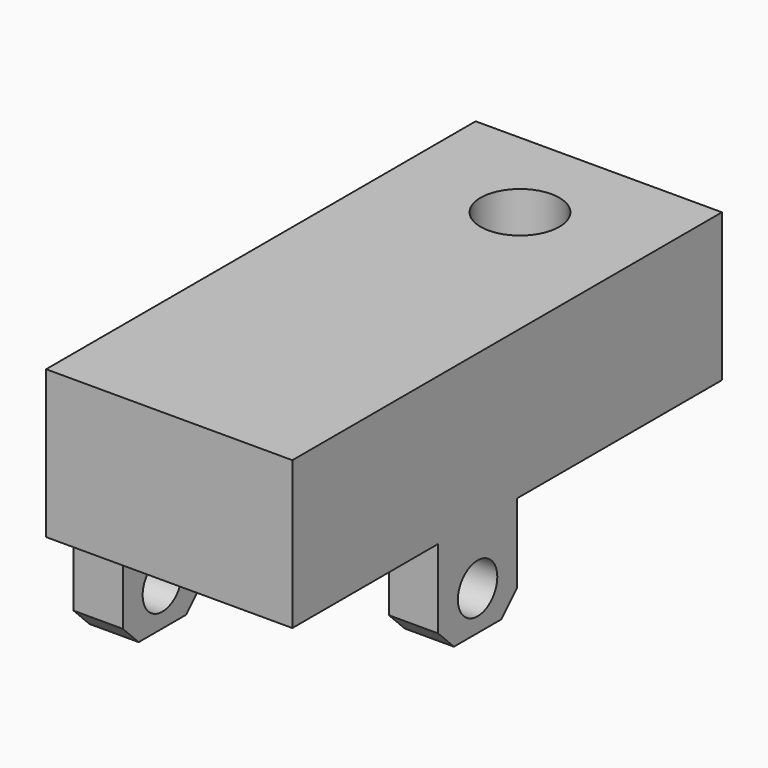
from build123d import *

# Parameters (mm, degrees)
F0_W     = 50
F0_H     = 30
F1_DEPTH = 109
F2_R     = 8
F3_DEPTH = 30.001
F4_R     = 5
F5_DEPTH = 50
F6_W     = 30
F6_H     = 20
F7_DEPTH = 109.001
F8_W     = 20
F8_H     = 20
F9_DEPTH = 25


with BuildPart() as f1:
    # F0 (on Front) → F1 (new body)
    with BuildSketch(Plane.XZ):
        with Locations((25, 15)):
            Rectangle(F0_W, F0_H)
    extrude(amount=F1_DEPTH)

    # F2 (on face) → F3 (cut, through all)
    with BuildSketch(Plane.XY.offset(30)):
        with Locations((25, -20)):
            Circle(F2_R)
    extrude(amount=-F3_DEPTH, mode=Mode.SUBTRACT)

    # F4 (on face) → F5 (join)
    with BuildSketch(Plane.YZ.offset(50)):
        Polygon((-52, 0), (-72, 0), (-72, -16), (-68, -20), (-56, -20), (-52, -16), align=None)
        with Locations((-62, -12)):
            Circle(F4_R, mode=Mode.SUBTRACT)
        Polygon((-82, 0), (-102, 0), (-102, -16), (-98, -20), (-86, -20), (-82, -16), align=None)
        with Locations((-92, -12)):
            Circle(F4_R, mode=Mode.SUBTRACT)
    extrude(amount=-F5_DEPTH)

    # F6 (on face) → F7 (cut, through all)
    with BuildSketch(Plane(origin=(0, 0, 0), x_dir=(-1, 0, 0), z_dir=(0, 1, 0))):
        with Locations((-25, -10)):
            Rectangle(F6_W, F6_H)
    extrude(amount=-F7_DEPTH, mode=Mode.SUBTRACT)

    # F8 (on face) → F9 (cut)
    with BuildSketch(Plane.YZ.offset(50)):
        with Locations((-92, -10)):
            Rectangle(F8_W, F8_H)
    extrude(amount=-F9_DEPTH, mode=Mode.SUBTRACT)


solid = f1.part
